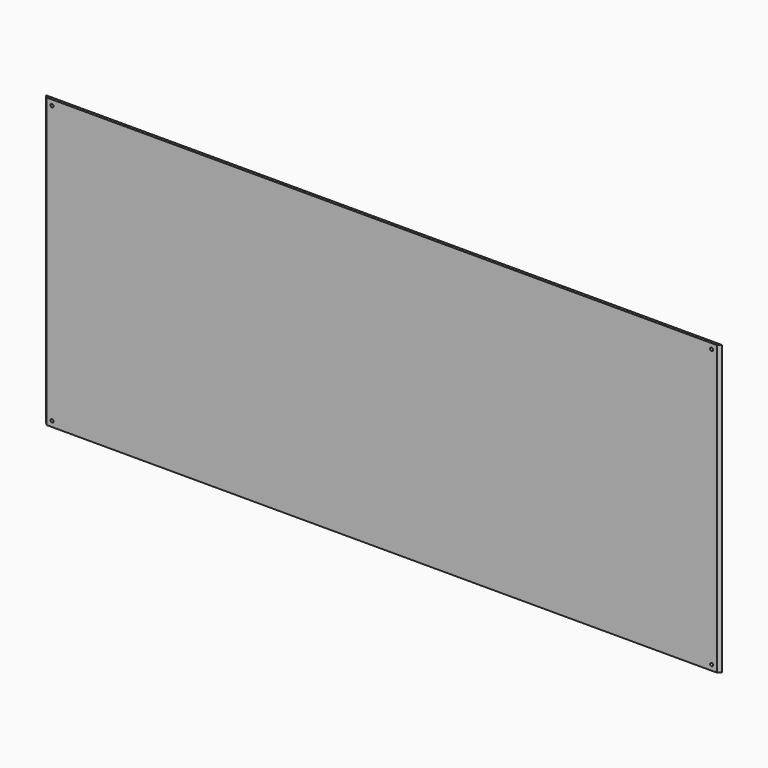
from build123d import *

# Parameters (mm, degrees)
F1_DEPTH = 320
F2_R     = 1.7
F3_DEPTH = 3


with BuildPart() as f1:
    # F0 (on Top) → F1 (new body)
    with BuildSketch(Plane.XY):
        Polygon((375, 1.5), (0, 1.5), (-375, 1.5), (-372, -1.5), (0, -1.5), (372, -1.5), align=None)
    extrude(amount=F1_DEPTH)

    # F2 (on face) → F3 (cut)
    with BuildSketch(Plane(origin=(0, 1.5, 0), x_dir=(-1, 0, 0), z_dir=(0, 1, 0))):
        with Locations((-366, 314)):
            Circle(F2_R)
        with Locations((366, 314)):
            Circle(F2_R)
        with Locations((366, 6)):
            Circle(F2_R)
        with Locations((-366, 6)):
            Circle(F2_R)
    extrude(amount=-F3_DEPTH, mode=Mode.SUBTRACT)


solid = f1.part
